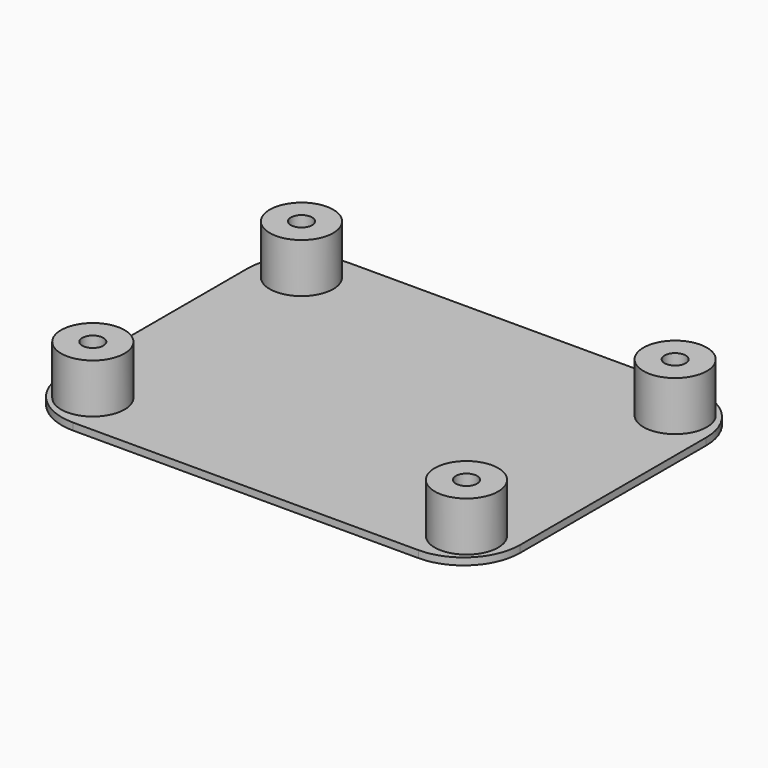
from build123d import *

# Parameters (mm, degrees)
F0_W     = 65
F0_H     = 49
F0_R     = 4.5
F1_DEPTH = 1
F0_R_2   = 1.5
F3_DEPTH = 8
F4_R     = 8


with BuildPart() as f1:
    # F0 (on Top) → F1 (new body)
    with BuildSketch(Plane.XY):
        Rectangle(F0_W, F0_H)
        with Locations((-26.5, -18.5)):
            Circle(F0_R, mode=Mode.SUBTRACT)
        with Locations((26.5, -18.5)):
            Circle(F0_R, mode=Mode.SUBTRACT)
        with Locations((-26.5, 18.5)):
            Circle(F0_R, mode=Mode.SUBTRACT)
        with Locations((26.5, 18.5)):
            Circle(F0_R, mode=Mode.SUBTRACT)
    extrude(amount=F1_DEPTH)

    # F0 (on Top) → F3 (join)
    with BuildSketch(Plane.XY):
        with Locations((26.5, 18.5)):
            Circle(F0_R)
        with Locations((26.5, 18.5)):
            Circle(F0_R_2, mode=Mode.SUBTRACT)
        with Locations((-26.5, -18.5)):
            Circle(F0_R)
        with Locations((-26.5, -18.5)):
            Circle(F0_R_2, mode=Mode.SUBTRACT)
        with Locations((-26.5, 18.5)):
            Circle(F0_R)
        with Locations((-26.5, 18.5)):
            Circle(F0_R_2, mode=Mode.SUBTRACT)
        with Locations((26.5, -18.5)):
            Circle(F0_R)
        with Locations((26.5, -18.5)):
            Circle(F0_R_2, mode=Mode.SUBTRACT)
    extrude(amount=F3_DEPTH)

    # F4
    f4_edges = [f1.edges().sort_by_distance(p)[0] for p in [
        (32.5, -24.5, 0.5),
        (32.5, 24.5, 0.5),
        (-32.5, -24.5, 0.5),
        (-32.5, 24.5, 0.5),
    ]]
    fillet(f4_edges, radius=F4_R)


solid = f1.part
